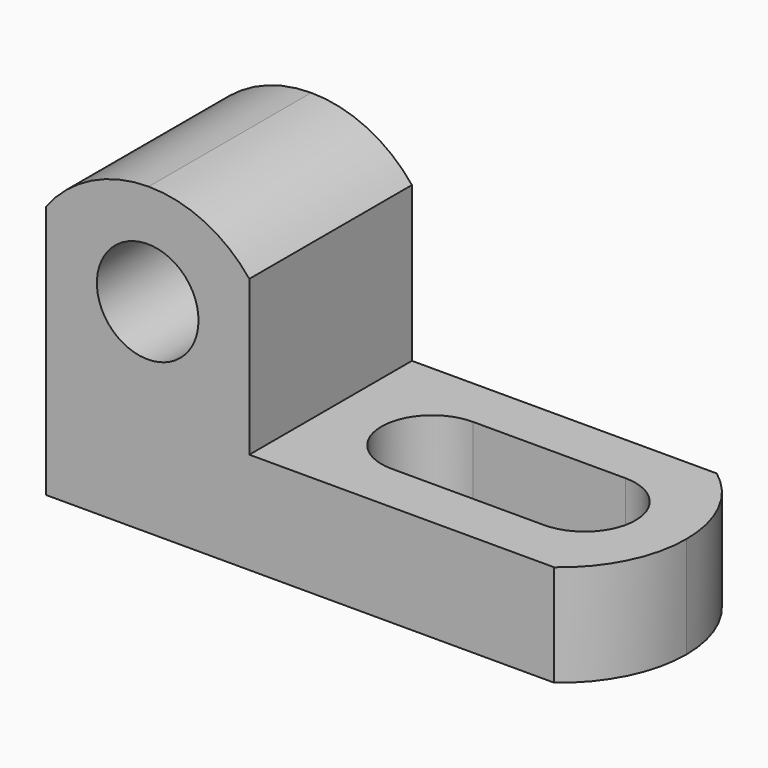
from build123d import *

# Parameters (mm, degrees)
F0_W      = 69.85
F0_H      = 38.1
F1_DEPTH  = 25.4
F2_W      = 44.45
F2_H      = 25.4
F3_DEPTH  = 25.4
F5_DEPTH  = 25.4
F7_DEPTH  = 25.4
F9_DEPTH  = 25.4
F10_R     = 6.349565
F11_DEPTH = 25.4


with BuildPart() as f1:
    # F0 (on Front) → F1 (new body)
    with BuildSketch(Plane.XZ):
        with Locations((34.925, 19.05)):
            Rectangle(F0_W, F0_H)
    extrude(amount=-F1_DEPTH)

    # F2 (on Front) → F3 (cut)
    with BuildSketch(Plane.XZ):
        with Locations((47.625, 25.4)):
            Rectangle(F2_W, F2_H)
    extrude(amount=-F3_DEPTH, mode=Mode.SUBTRACT)

    # F4 (on Top) → F5 (cut)
    with BuildSketch(Plane.XY):
        with BuildLine():
            ThreePointArc((63.5, 25.4), (68.174032, 19.799516), (69.85, 12.7))
            Line((69.85, 12.7), (69.85, 25.4))
            Line((69.85, 25.4), (63.5, 25.4))
        make_face()
        with BuildLine():
            ThreePointArc((69.85, 12.7), (68.174032, 5.600484), (63.5, 0))
            Line((63.5, 0), (69.85, 0))
            Line((69.85, 0), (69.85, 12.7))
        make_face()
    extrude(amount=F5_DEPTH, mode=Mode.SUBTRACT)

    # F6 (on Front) → F7 (cut)
    with BuildSketch(Plane.XZ):
        with BuildLine():
            ThreePointArc((0, 31.75), (5.663485, 36.425437), (12.814052, 38.1))
            Line((12.814052, 38.1), (0, 38.1))
            Line((0, 38.1), (0, 31.75))
        make_face()
        with BuildLine():
            ThreePointArc((12.814052, 38.1), (19.797928, 36.506847), (25.4, 32.042605))
            Line((25.4, 32.042605), (25.4, 38.1))
            Line((25.4, 38.1), (12.814052, 38.1))
        make_face()
    extrude(amount=-F7_DEPTH, mode=Mode.SUBTRACT)

    # F8 (on Top) → F9 (cut)
    with BuildSketch(Plane.XY):
        with BuildLine():
            Line((57.15, 19.05), (38.1, 19.05))
            ThreePointArc((38.1, 19.05), (31.75, 12.7), (38.1, 6.35))
            Line((38.1, 6.35), (57.15, 6.35))
            ThreePointArc((57.15, 6.35), (63.5, 12.7), (57.15, 19.05))
        make_face()
    extrude(amount=F9_DEPTH, mode=Mode.SUBTRACT)

    # F10 (on Front) → F11 (cut)
    with BuildSketch(Plane.XZ):
        with Locations((12.699565, 25.399565)):
            Circle(F10_R)
    extrude(amount=-F11_DEPTH, mode=Mode.SUBTRACT)


solid = f1.part
